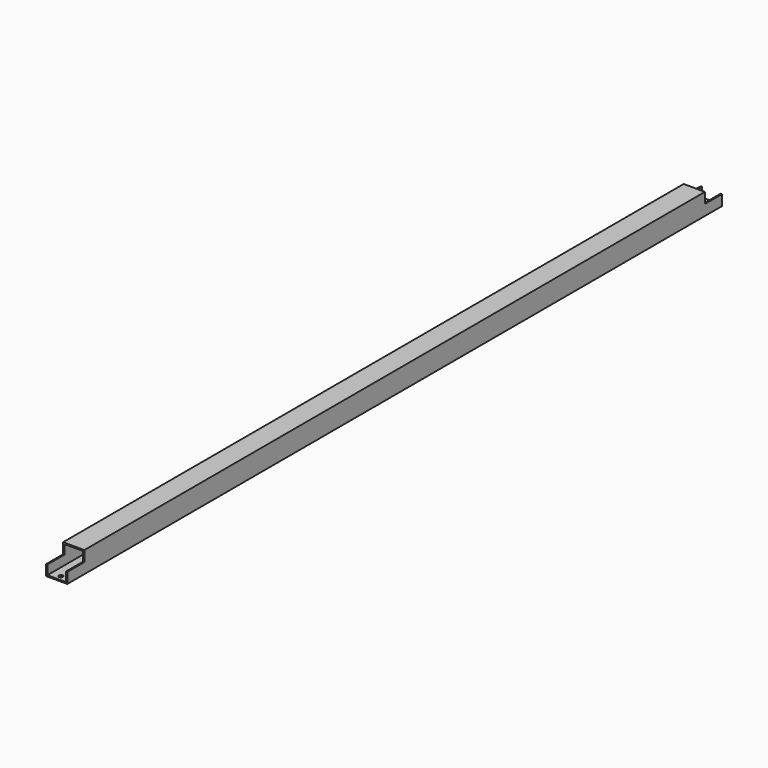
from build123d import *

# Parameters (mm, degrees)
F0_W     = 50.8
F0_H     = 50.8
F0_W_2   = 44.704
F0_H_2   = 44.704
F1_DEPTH = 977.9
F2_R     = 4.7625
F3_DEPTH = 25.4
F4_W     = 50.8
F4_H     = 101.6
F5_DEPTH = 25.4


with BuildPart() as f1:
    # F0 (on Front) → F1 (new body, symmetric)
    with BuildSketch(Plane.XZ):
        with Locations((19.2208130826, 18.3696289983)):
            Rectangle(F0_W, F0_H)
        with Locations((19.2208130826, 18.3696289983)):
            Rectangle(F0_W_2, F0_H_2, mode=Mode.SUBTRACT)
    extrude(amount=F1_DEPTH, both=True)

    # F2 (on face) → F3 (cut)
    with BuildSketch(Plane.XY.offset(-3.9823710017)):
        with Locations((19.2208130826, -965.2)):
            Circle(F2_R)
        with Locations((19.2208130826, -939.8)):
            Circle(F2_R)
        with Locations((19.2208130826, 965.2)):
            Circle(F2_R)
        with Locations((19.2208130826, 939.8)):
            Circle(F2_R)
    extrude(amount=-F3_DEPTH, mode=Mode.SUBTRACT)

    # F4 (on face) → F5 (cut)
    with BuildSketch(Plane.XY.offset(43.7696289983)):
        with Locations((19.2208130826, -977.9)):
            Rectangle(F4_W, F4_H)
        with Locations((19.2208130826, 977.9)):
            Rectangle(F4_W, F4_H)
    extrude(amount=-F5_DEPTH, mode=Mode.SUBTRACT)


solid = f1.part
